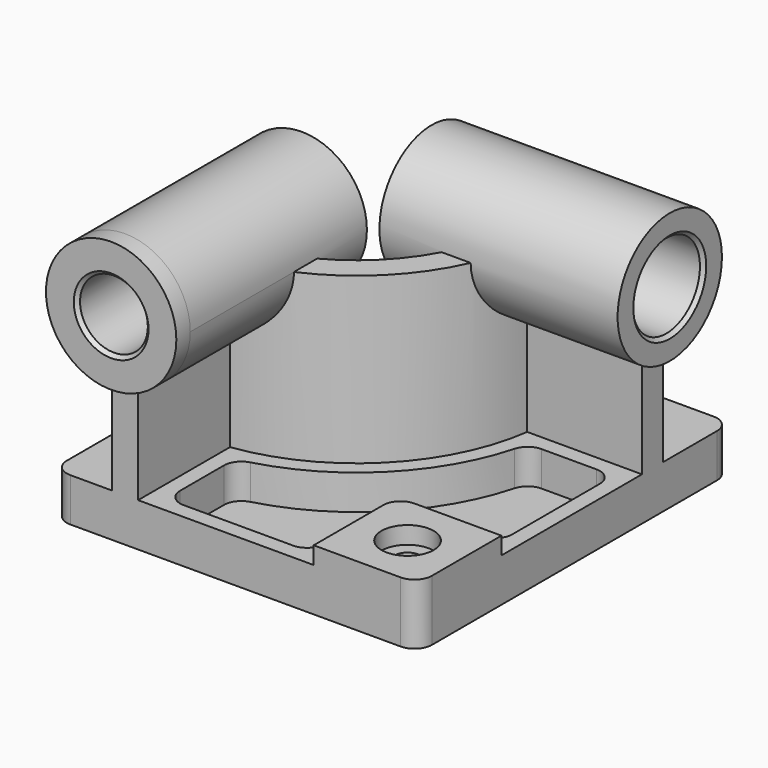
from build123d import *

# Parameters (mm, degrees)
F0_W            = 210
F0_H            = 225
F1_DEPTH        = 25
F3_DEPTH        = 95
F4_R            = 37.5
F5_DEPTH        = 10
F5_DEPTH_BACK   = 127
F6_R            = 37.5
F7_DEPTH        = 10
F7_DEPTH_BACK   = 127
F8_W            = 60
F8_H            = 60
F9_DEPTH        = 10
F10_R           = 10
F12_DEPTH       = 20
F14_D           = 15
F14_CBORE_D     = 30
F14_CBORE_DEPTH = 10
F15_R           = 10
F16_R           = 19.5
F17_DEPTH       = 235.001
F18_R           = 24.199633
F19_DEPTH       = 220.001
F20_SIZE        = 2
F21_R           = 10


with BuildPart() as f1:
    # F0 (on Top) → F1 (new body)
    with BuildSketch(Plane.XY):
        Rectangle(F0_W, F0_H)
    extrude(amount=F1_DEPTH)

    # F2 (on face) → F3 (join)
    with BuildSketch(Plane.XY.offset(25)):
        with BuildLine():
            Line((-71, -32.5), (-71, -112.5))
            Line((-71, -112.5), (-56, -112.5))
            Line((-56, -112.5), (-56, -46.481817))
            ThreePointArc((-56, -46.481817), (7.488853, -14.988853), (38.981817, 48.5))
            Line((38.981817, 48.5), (105, 48.5))
            Line((105, 48.5), (105, 63.5))
            Line((105, 63.5), (25, 63.5))
            ThreePointArc((25, 63.5), (-3.117749, -4.382251), (-71, -32.5))
        make_face()
    extrude(amount=F3_DEPTH)

    # F4 (on face) → F5 (join, two sides)
    with BuildSketch(Plane.XZ.offset(112.5)) as f5_sk:
        with Locations((-63.5, 120)):
            Circle(F4_R)
    extrude(amount=F5_DEPTH)
    extrude(f5_sk.sketch, amount=-F5_DEPTH_BACK)

    # F6 (on face) → F7 (join, two sides)
    with BuildSketch(Plane.YZ.offset(105)) as f7_sk:
        with Locations((56, 120)):
            Circle(F6_R)
    extrude(amount=F7_DEPTH)
    extrude(f7_sk.sketch, amount=-F7_DEPTH_BACK)

    # F8 (on face) → F9 (join)
    with BuildSketch(Plane.XY.offset(25)):
        with Locations((75, -82.5)):
            Rectangle(F8_W, F8_H)
    extrude(amount=F9_DEPTH)

    # F10
    f10_edges = [f1.edges().sort_by_distance(p)[0] for p in [
        (45, -52.5, 30),
    ]]
    fillet(f10_edges, radius=F10_R)

    # F11 (on face) → F12 (cut)
    with BuildSketch(Plane.XY.offset(25)):
        with BuildLine():
            ThreePointArc((46.575508, 39.5), (13.852814, -21.352814), (-47, -54.075508))
            Line((-47, -54.075508), (-47, -103.5))
            Line((-47, -103.5), (36, -103.5))
            Line((36, -103.5), (36, -62.5))
            ThreePointArc((36, -62.5), (41.564971, -49.064971), (55, -43.5))
            Line((55, -43.5), (96, -43.5))
            Line((96, -43.5), (96, 39.5))
            Line((96, 39.5), (46.575508, 39.5))
        make_face()
    extrude(amount=-F12_DEPTH, mode=Mode.SUBTRACT)

    # F14 (through all)
    with Locations(Plane.XY.offset(35)):
        with Locations((75, -82.5)):
            CounterBoreHole(F14_D / 2, F14_CBORE_D / 2, F14_CBORE_DEPTH)

    # F15
    f15_edges = [f1.edges().sort_by_distance(p)[0] for p in [
        (46.575508, 39.5, 15),
        (-47, -54.075508, 15),
        (-47, -103.5, 15),
        (96, 39.5, 15),
        (96, -43.5, 15),
        (36, -103.5, 15),
    ]]
    fillet(f15_edges, radius=F15_R)

    # F16 (on face) → F17 (cut, through all)
    with BuildSketch(Plane.XZ.offset(122.5)):
        with Locations((-63.5, 120)):
            Circle(F16_R)
    extrude(amount=-F17_DEPTH, mode=Mode.SUBTRACT)

    # F18 (on face) → F19 (cut, through all)
    with BuildSketch(Plane.YZ.offset(115)):
        with Locations((56, 120)):
            Circle(F18_R)
    extrude(amount=-F19_DEPTH, mode=Mode.SUBTRACT)

    # F20
    f20_edges = [f1.edges().sort_by_distance(p)[0] for p in [
        (-83, -122.5, 120),
        (115, 31.800367, 120),
        (-22, 31.800367, 120),
        (-83, 14.5, 120),
    ]]
    chamfer(f20_edges, length=F20_SIZE)

    # F21
    f21_edges = [f1.edges().sort_by_distance(p)[0] for p in [
        (-105, -112.5, 12.5),
        (105, -112.5, 17.5),
        (105, 112.5, 12.5),
        (-105, 112.5, 12.5),
    ]]
    fillet(f21_edges, radius=F21_R)


solid = f1.part
